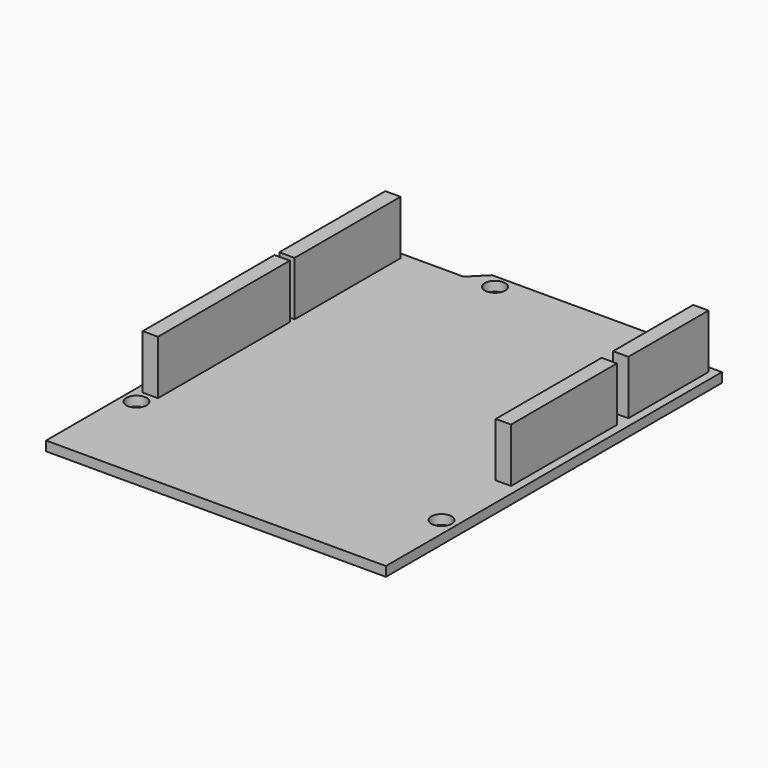
from build123d import *

# Parameters (mm, degrees)
PAD_DEPTH    = 1.5
SKETCH001_R  = 1.6
POCKET_DEPTH = 1.501
SKETCH002_W  = 2.4
SKETCH002_H  = 25.9
PAD001_DEPTH = 8.5
SKETCH003_W  = 2.4
SKETCH003_H  = 20.8
PAD002_DEPTH = 8.5
SKETCH004_W  = 2.4
SKETCH004_H  = 20.8
PAD003_DEPTH = 8.5
SKETCH005_W  = 2.4
SKETCH005_H  = 15.75
PAD004_DEPTH = 8.5


with BuildPart() as mainboard:
    # Sketch → Pad (new body)
    with BuildSketch(Plane.XY):
        Polygon((0, 0), (53.4, 0), (53.4, 66), (49.8, 66), (47.3, 68.5), (15.3, 68.5), (12.8, 66), (0, 66), align=None)
    extrude(amount=-PAD_DEPTH)

    # Sketch001 → Pocket (cut, through all)
    with BuildSketch(Plane.XY):
        with Locations((2.2, 15)):
            Circle(SKETCH001_R)
        with Locations((51.1, 13.8)):
            Circle(SKETCH001_R)
        with Locations((17.5, 66.3)):
            Circle(SKETCH001_R)
        with Locations((45, 66.3)):
            Circle(SKETCH001_R)
    extrude(amount=-POCKET_DEPTH, mode=Mode.SUBTRACT)


with BuildPart() as header1_10pin:
    # Sketch002 → Pad001 (new body)
    with BuildSketch(Plane.XY):
        with Locations((2.5, 30.3)):
            Rectangle(SKETCH002_W, SKETCH002_H)
    extrude(amount=PAD001_DEPTH)


with BuildPart() as header2_8pin:
    # Sketch003 → Pad002 (new body)
    with BuildSketch(Plane.XY):
        with Locations((2.5, 54.6)):
            Rectangle(SKETCH003_W, SKETCH003_H)
    extrude(amount=PAD002_DEPTH)


with BuildPart() as header3_8pin:
    # Sketch004 → Pad003 (new body)
    with BuildSketch(Plane.XY):
        with Locations((50.9, 36.6)):
            Rectangle(SKETCH004_W, SKETCH004_H)
    extrude(amount=PAD003_DEPTH)


with BuildPart() as header4_6pin:
    # Sketch005 → Pad004 (new body)
    with BuildSketch(Plane.XY):
        with Locations((50.9, 57.125)):
            Rectangle(SKETCH005_W, SKETCH005_H)
    extrude(amount=PAD004_DEPTH)


solid = Compound([mainboard.part, header1_10pin.part, header2_8pin.part, header3_8pin.part, header4_6pin.part])
